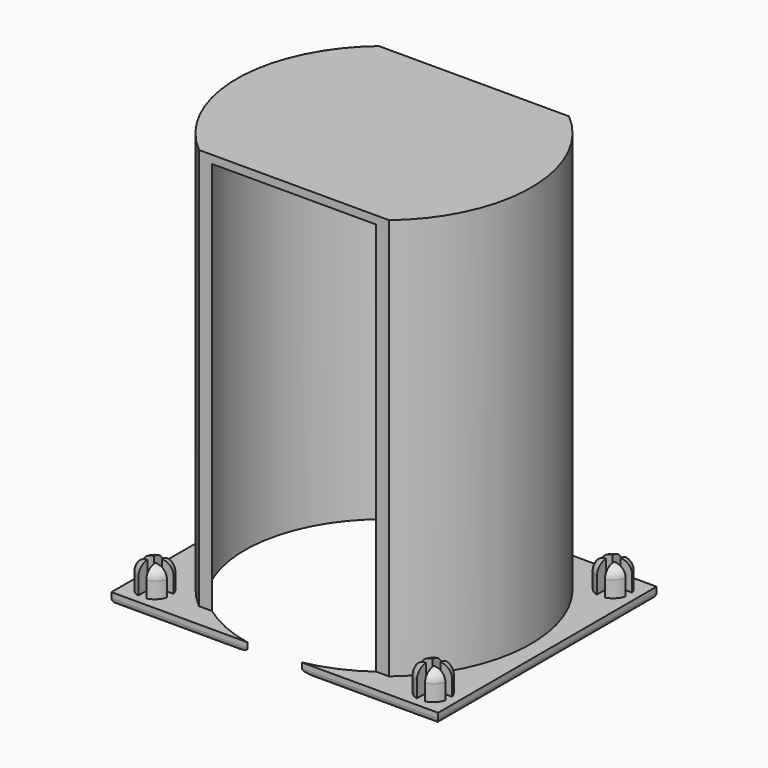
from build123d import *

# Parameters (mm, degrees)
SKETCH001_W                = 61
SKETCH001_H                = 51
PAD_DEPTH                  = 2
SKETCH002_R                = 3
PAD001_DEPTH               = 5
SKETCH002_MIRRORED_2_R     = 3
PAD001_MIRRORED_2_DEPTH    = 5
FILLET_R                   = 2
FILLET001_R                = 1
POCKET_DEPTH               = 5
POCKET_MIRRORED002_2_DEPTH = 5
PAD039_DEPTH               = 77
SKETCH088_R                = 26
POCKET026_DEPTH            = 75.5


with BuildPart() as part:
    # Sketch001 → Pad (new body)
    with BuildSketch(Plane.XY):
        Rectangle(SKETCH001_W, SKETCH001_H)
    extrude(amount=PAD_DEPTH)

    # Sketch002 (on DatumPlane) → Pad001 (join)
    with BuildSketch(Plane.XY.offset(2)):
        with Locations((-26, 21)):
            Circle(SKETCH002_R)
    pad001 = extrude(amount=PAD001_DEPTH)

    # Sketch002 Mirrored 2 → Pad001 Mirrored 2 (add)
    with BuildSketch(Plane(origin=(0, 0, 2), x_dir=(-1, 0, 0), z_dir=(0, 0, -1))):
        with Locations((-26, 21)):
            Circle(SKETCH002_MIRRORED_2_R)
    pad001_mirrored_2 = extrude(amount=-PAD001_MIRRORED_2_DEPTH)

    # Mirrored001: Pad001, Pad001 Mirrored 2 across Sketch002 H_Axis
    add(pad001.mirror(Plane(origin=(0, 0, 2), x_dir=(0, 0, 1), z_dir=(0, 1, 0))))
    add(pad001_mirrored_2.mirror(Plane(origin=(0, 0, 2), x_dir=(0, 0, 1), z_dir=(0, 1, 0))))

    # Fillet
    fillet_edges = [part.edges().sort_by_distance(p)[0] for p in [
        (29, 21, 7),
        (29, -21, 7),
        (-29, -21, 7),
        (-29, 21, 7),
    ]]
    fillet(fillet_edges, radius=FILLET_R)

    # Fillet001
    fillet001_edges = [part.edges().sort_by_distance(p)[0] for p in [
        (0, 25.5, 0),
        (30.5, 0, 0),
        (0, -25.5, 0),
        (-30.5, 0, 0),
    ]]
    fillet(fillet001_edges, radius=FILLET001_R)

    # Sketch003 (on DatumPlane) → Pocket (cut)
    with BuildSketch(Plane.XY.offset(7)):
        Polygon((-29.265642, -20.28286), (-26.765642, -20.28286), (-26.765642, -17.78286), (-25.265642, -17.78286), (-25.265642, -20.28286), (-22.765642, -20.28286), (-22.765642, -21.78286), (-25.265642, -21.78286), (-25.265642, -24.28286), (-26.765642, -24.28286), (-26.765642, -21.78286), (-29.265642, -21.78286), align=None)
    pocket = extrude(amount=-POCKET_DEPTH, mode=Mode.SUBTRACT)

    # Sketch003 Mirrored002 2 → Pocket Mirrored002 2 (cut)
    with BuildSketch(Plane(origin=(0, 0, 7), x_dir=(-1, 0, 0), z_dir=(0, 0, -1))):
        Polygon((-29.265642, -20.28286), (-26.765642, -20.28286), (-26.765642, -17.78286), (-25.265642, -17.78286), (-25.265642, -20.28286), (-22.765642, -20.28286), (-22.765642, -21.78286), (-25.265642, -21.78286), (-25.265642, -24.28286), (-26.765642, -24.28286), (-26.765642, -21.78286), (-29.265642, -21.78286), align=None)
    pocket_mirrored002_2 = extrude(amount=POCKET_MIRRORED002_2_DEPTH, mode=Mode.SUBTRACT)

    # Mirrored003: Pocket, Pocket Mirrored002 2 across Sketch003 H_Axis
    add(pocket.mirror(Plane(origin=(0, 0, 7), x_dir=(0, 0, 1), z_dir=(0, 1, 0))), mode=Mode.SUBTRACT)
    add(pocket_mirrored002_2.mirror(Plane(origin=(0, 0, 7), x_dir=(0, 0, 1), z_dir=(0, 1, 0))), mode=Mode.SUBTRACT)


with BuildPart() as part_1:
    # Body placement: moved
    add(part.part.moved(Location((0, -65, 0))))

    # Sketch089 (on DatumPlane) → Pad039 (new body)
    with BuildSketch(Plane(origin=(0, -65, 0), x_dir=(1, 0, 0), z_dir=(0, 0, -1))):
        with BuildLine():
            ThreePointArc((-17.755281, 21), (-27.5, 0), (-17.755281, -21))
            Line((17.755281, -21), (-17.755281, -21))
            ThreePointArc((17.755281, -21), (27.5, 0), (17.755281, 21))
            Line((-17.755281, 21), (17.755281, 21))
        make_face()
    extrude(amount=-PAD039_DEPTH)

    # Sketch088 (on DatumPlane) → Pocket026 (cut)
    with BuildSketch(Plane(origin=(0, -65, 0), x_dir=(1, 0, 0), z_dir=(0, 0, -1))):
        Circle(SKETCH088_R)
    extrude(amount=-POCKET026_DEPTH, mode=Mode.SUBTRACT)


with BuildPart() as part_2:
    # Body037 placement: moved
    add(part_1.part.moved(Location((295, 0, 0))))


solid = part_2.part
